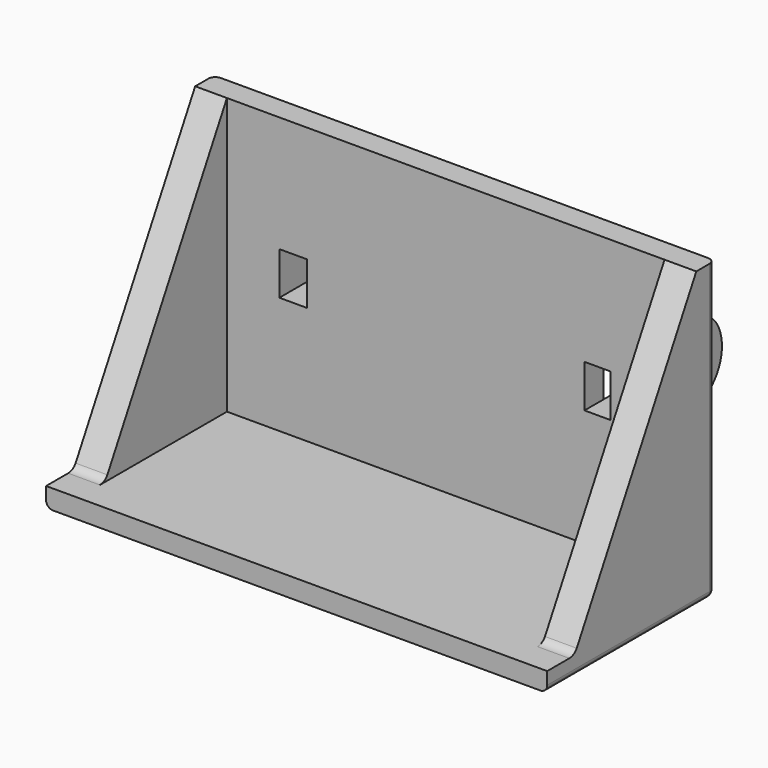
from build123d import *

# Parameters (mm, degrees)
PAD144_DEPTH            = 36.3
PAD145_DEPTH            = 36.3
POCKET111_DEPTH         = 28.2
PAD146_DEPTH            = 8.1
POCKET112_DEPTH         = 5.1
POCKET113_DEPTH         = 5.1
POCKET114_DEPTH         = 2
POCKET115_DEPTH         = 22
SKETCH252_W             = 3.1
SKETCH252_H             = 1.9
SKETCH252_H_2           = 2
POCKET116_DEPTH         = 1.7
PAD147_DEPTH            = 36.3
POCKET117_DEPTH         = 34
PAD148_DEPTH            = 2.3
FILLET047_R             = 0.5
BODY021_ROLL_ANGLE      = 90
BODY021_PLACEMENT_ANGLE = 90


with BuildPart() as part:
    # Sketch248 → Pad144 (new body)
    with BuildSketch(Plane.XY):
        Polygon((0, 0), (0, 1.4), (13.5, 1.4), (13.5, 21.4), (15.2, 21.4), (15.2, 0), align=None)
    extrude(amount=PAD144_DEPTH)

    # Sketch249 (on Face8 of Pad144) → Pad145 (join)
    with BuildSketch(Plane.XY.offset(36.3)):
        with BuildLine():
            Line((15.2, 15.6), (20.036303, 14.331076))
            ThreePointArc((20.036303, 8.568924), (22.2, 11.45), (20.036303, 14.331076))
            Line((15.2, 7.3), (20.036303, 8.568924))
            Line((15.2, 7.3), (15.2, 15.6))
        make_face()
    extrude(amount=-PAD145_DEPTH)

    # Sketch249 (on Face8 of Pad144) → Pocket111 (cut)
    with BuildSketch(Plane.XY.offset(36.3)):
        with BuildLine():
            Line((15.2, 15.6), (20.036303, 14.331076))
            ThreePointArc((20.036303, 8.568924), (22.2, 11.45), (20.036303, 14.331076))
            Line((15.2, 7.3), (20.036303, 8.568924))
            Line((15.2, 7.3), (15.2, 15.6))
        make_face()
    extrude(amount=-POCKET111_DEPTH, mode=Mode.SUBTRACT)

    # Sketch249 (on Face8 of Pad144) → Pad146 (join)
    with BuildSketch(Plane.XY.offset(36.3)):
        with BuildLine():
            Line((15.2, 15.6), (20.036303, 14.331076))
            ThreePointArc((20.036303, 8.568924), (22.2, 11.45), (20.036303, 14.331076))
            Line((15.2, 7.3), (20.036303, 8.568924))
            Line((15.2, 7.3), (15.2, 15.6))
        make_face()
    extrude(amount=-PAD146_DEPTH)

    # Sketch249 (on Face8 of Pad144) → Pocket112 (cut)
    with BuildSketch(Plane.XY.offset(36.3)):
        with BuildLine():
            Line((15.2, 15.6), (20.036303, 14.331076))
            ThreePointArc((20.036303, 8.568924), (22.2, 11.45), (20.036303, 14.331076))
            Line((15.2, 7.3), (20.036303, 8.568924))
            Line((15.2, 7.3), (15.2, 15.6))
        make_face()
    extrude(amount=-POCKET112_DEPTH, mode=Mode.SUBTRACT)

    # Sketch250 (on Face4 of Pocket112) → Pocket113 (cut)
    with BuildSketch(Plane(origin=(0, 0, 0), x_dir=(1, 0, 0), z_dir=(0, 0, -1))):
        with BuildLine():
            Line((20.036303, -8.568924), (15.2, -7.3))
            Line((15.2, -7.3), (15.2, -15.6))
            Line((15.2, -15.6), (20.036303, -14.331076))
            ThreePointArc((20.036303, -14.331076), (22.2, -11.45), (20.036303, -8.568924))
        make_face()
    extrude(amount=-POCKET113_DEPTH, mode=Mode.SUBTRACT)

    # Sketch251 (on Face15 of Pocket113) → Pocket114 (cut)
    with BuildSketch(Plane.XY.offset(8.1)):
        with BuildLine():
            ThreePointArc((19.2, 9.9), (20.75, 11.45), (19.2, 13))
            Line((19.2, 13), (15.2, 13))
            Line((15.2, 9.9), (15.2, 13))
            Line((19.2, 9.9), (15.2, 9.9))
        make_face()
    extrude(amount=-POCKET114_DEPTH, mode=Mode.SUBTRACT)

    # Sketch251 (on Face15 of Pocket113) → Pocket115 (cut)
    with BuildSketch(Plane.XY.offset(8.1)):
        with BuildLine():
            ThreePointArc((19.2, 9.9), (20.75, 11.45), (19.2, 13))
            Line((19.2, 13), (15.2, 13))
            Line((15.2, 9.9), (15.2, 13))
            Line((19.2, 9.9), (15.2, 9.9))
        make_face()
    extrude(amount=POCKET115_DEPTH, mode=Mode.SUBTRACT)

    # Sketch252 (on Face8 of Pocket115) → Pocket116 (cut)
    with BuildSketch(Plane.YZ.offset(15.2)):
        with Locations((11.45, 29.15)):
            Rectangle(SKETCH252_W, SKETCH252_H)
        with Locations((11.45, 7.1)):
            Rectangle(SKETCH252_W, SKETCH252_H_2)
    extrude(amount=-POCKET116_DEPTH, mode=Mode.SUBTRACT)

    # Sketch253 (on Face5 of Pocket116) → Pad147 (join)
    with BuildSketch(Plane.XY.offset(36.3)):
        with BuildLine():
            Line((13.5, 21.4), (13.5, 1.4))
            Line((13.5, 1.4), (2, 1.4))
            ThreePointArc((2, 1.4), (2.384708, 1.498573), (2.674611, 1.77))
            Line((2.674611, 1.77), (13.5, 21.4))
        make_face()
    extrude(amount=-PAD147_DEPTH)

    # Sketch253 (on Face5 of Pocket116) → Pocket117 (cut)
    with BuildSketch(Plane.XY.offset(36.3)):
        with BuildLine():
            Line((13.5, 21.4), (13.5, 1.4))
            Line((13.5, 1.4), (2, 1.4))
            ThreePointArc((2, 1.4), (2.384708, 1.498573), (2.674611, 1.77))
            Line((2.674611, 1.77), (13.5, 21.4))
        make_face()
    extrude(amount=-POCKET117_DEPTH, mode=Mode.SUBTRACT)

    # Sketch253 (on Face5 of Pocket116) → Pad148 (join)
    with BuildSketch(Plane.XY.offset(36.3)):
        with BuildLine():
            Line((13.5, 21.4), (13.5, 1.4))
            Line((13.5, 1.4), (2, 1.4))
            ThreePointArc((2, 1.4), (2.384708, 1.498573), (2.674611, 1.77))
            Line((2.674611, 1.77), (13.5, 21.4))
        make_face()
    extrude(amount=-PAD148_DEPTH)

    # Fillet047
    fillet047_edges = [part.edges().sort_by_distance(p)[0] for p in [
        (7.6, 0, 36.3),
        (15.2, 10.7, 36.3),
        (15.2, 0, 18.15),
        (15.2, 10.7, 0),
        (7.6, 0, 0),
    ]]
    fillet(fillet047_edges, radius=FILLET047_R)


with BuildPart() as part_1:
    # Body021 roll: moved
    add(part.part.rotate(Axis((0, 0, 0), (1, 0, 0)), BODY021_ROLL_ANGLE))


with BuildPart() as part_2:
    # Body021 placement: moved
    add(part_1.part.moved(Location((20.05, -79.35, -11.45))).rotate(Axis((20.05, -79.35, -11.45), (0, 0, 1)), BODY021_PLACEMENT_ANGLE))


solid = part_2.part
